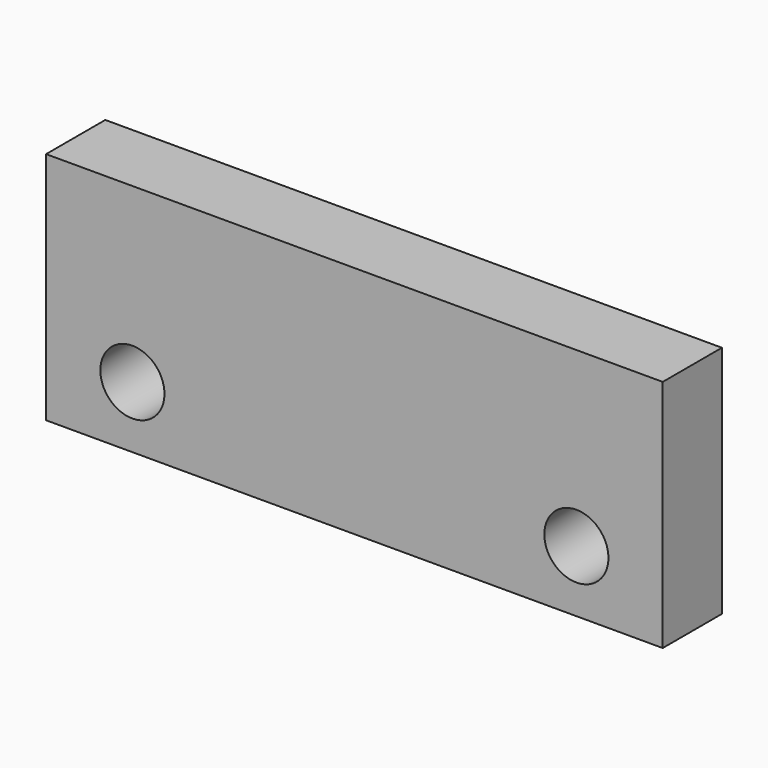
from build123d import *

# Parameters (mm, degrees)
F0_W     = 50
F0_H     = 19
F1_DEPTH = 6
F2_D     = 5.2


with BuildPart() as f1:
    # F0 (on Front) → F1 (new body)
    with BuildSketch(Plane.XZ):
        with Locations((0, 9.5)):
            Rectangle(F0_W, F0_H)
    extrude(amount=-F1_DEPTH)

    # F2 (through all)
    with Locations(Plane.XZ):
        with Locations((-18, 5), (18, 5)):
            Hole(F2_D / 2)


solid = f1.part
